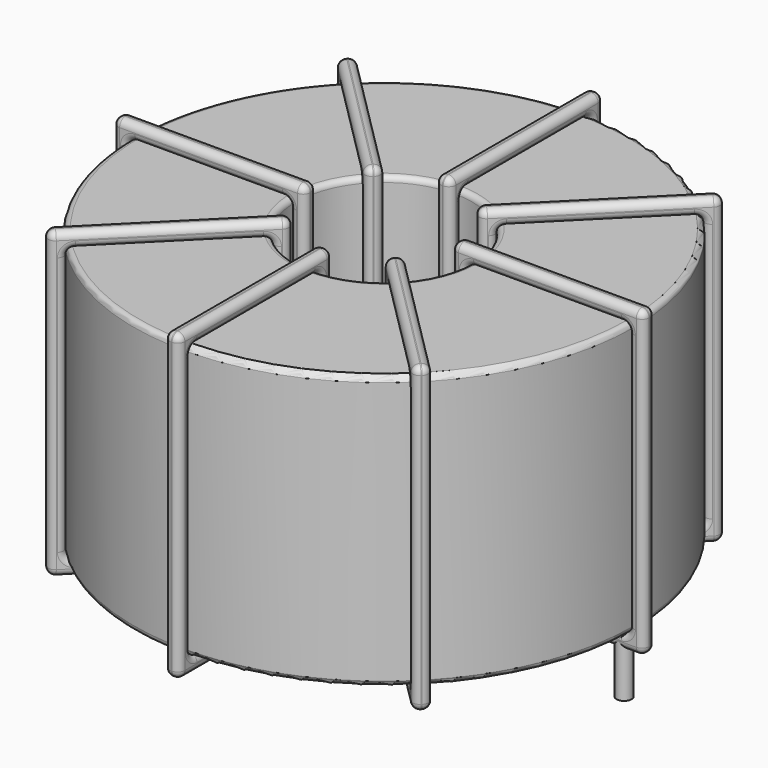
from build123d import *

# Parameters (mm, degrees)
SKETCH001_R       = 0.7
PAD001_DEPTH      = 0.7
PAD001_DEPTH_BACK = 4.9
SKETCH_R          = 23.25
SKETCH_R_2        = 8.216667
PAD_DEPTH         = 25.4
FILLET_R          = 0.5
SKETCH003_W       = 17.833333
SKETCH003_H       = 28.2
SKETCH003_W_2     = 15.033333
SKETCH003_H_2     = 25.4
PAD002_DEPTH      = 0.7
FILLET001_R       = 0.658
SKETCH004_W       = 17.833333
SKETCH004_H       = 28.2
SKETCH004_W_2     = 15.033333
SKETCH004_H_2     = 25.4
PAD003_DEPTH      = 0.7
FILLET002_R       = 0.658
SKETCH005_W       = 17.833333
SKETCH005_H       = 28.2
SKETCH005_W_2     = 15.033333
SKETCH005_H_2     = 25.4
PAD004_DEPTH      = 0.7
FILLET003_R       = 0.658
SKETCH006_W       = 17.833333
SKETCH006_H       = 28.2
SKETCH006_W_2     = 15.033333
SKETCH006_H_2     = 25.4
PAD005_DEPTH      = 0.7
FILLET004_R       = 0.658


with BuildPart() as pad001:
    # Sketch001 → Pad001 (new body, two sides)
    with BuildSketch(Plane.XY.offset(1.2)) as pad001_sk:
        Circle(SKETCH001_R)
        with Locations((44.6, 0)):
            Circle(SKETCH001_R)
    extrude(amount=PAD001_DEPTH)
    extrude(pad001_sk.sketch, amount=-PAD001_DEPTH_BACK)


with BuildPart() as fillet_body:
    # Sketch → Pad (new body)
    with BuildSketch(Plane.XY.offset(1.9)):
        with Locations((22.3, 0)):
            Circle(SKETCH_R)
        with Locations((22.3, 0)):
            Circle(SKETCH_R_2, mode=Mode.SUBTRACT)
    extrude(amount=PAD_DEPTH)

    # Fillet
    fillet_edges = [fillet_body.edges().sort_by_distance(p)[0] for p in [
        (14.083333, 0, 27.3),
        (-0.95, 0, 27.3),
        (-0.95, 0, 1.9),
    ]]
    fillet(fillet_edges, radius=FILLET_R)


with BuildPart() as fillet001:
    # Sketch003 → Pad002 (new body, symmetric)
    with BuildSketch(Plane(origin=(22.3, 0, 0), x_dir=(1, 0, 0), z_dir=(0, -1, 0))):
        with Locations((-15.733333, 14.6)):
            Rectangle(SKETCH003_W, SKETCH003_H)
        with Locations((-15.733334, 14.6)):
            Rectangle(SKETCH003_W_2, SKETCH003_H_2, mode=Mode.SUBTRACT)
        with Locations((15.733333, 14.6)):
            Rectangle(SKETCH003_W, SKETCH003_H)
        with Locations((15.733334, 14.6)):
            Rectangle(SKETCH003_W_2, SKETCH003_H_2, mode=Mode.SUBTRACT)
    extrude(amount=PAD002_DEPTH, both=True)

    # Fillet001
    fillet001_edges = [fillet001.edges().sort_by_distance(p)[0] for p in [
        (14.083333, 0, 27.3),
        (14.083333, 0, 1.9),
        (14.083333, 0.7, 14.6),
        (14.083333, -0.7, 14.6),
        (-2.35, 0, 28.7),
        (15.483333, 0, 28.7),
        (6.566667, 0.7, 28.7),
        (6.566667, -0.7, 28.7),
        (15.483333, 0, 0.5),
        (15.483333, 0.7, 14.6),
        (15.483333, -0.7, 14.6),
        (30.516667, 0, 27.3),
        (45.55, 0, 27.3),
        (38.033333, 0.7, 27.3),
        (38.033333, -0.7, 27.3),
        (45.55, 0, 1.9),
        (45.55, 0.7, 14.6),
        (45.55, -0.7, 14.6),
        (29.116667, 0, 28.7),
        (46.95, 0, 28.7),
        (38.033333, 0.7, 28.7),
        (38.033333, -0.7, 28.7),
        (46.95, 0, 0.5),
        (46.95, 0.7, 14.6),
        (46.95, -0.7, 14.6),
        (-0.95, 0, 27.3),
        (6.566667, 0.7, 27.3),
        (6.566667, -0.7, 27.3),
        (30.516667, 0, 1.9),
        (30.516667, 0.7, 14.6),
        (30.516667, -0.7, 14.6),
        (38.033333, 0.7, 1.9),
        (38.033333, -0.7, 1.9),
        (29.116667, 0, 0.5),
        (38.033333, 0.7, 0.5),
        (38.033333, -0.7, 0.5),
        (29.116667, 0.7, 14.6),
        (29.116667, -0.7, 14.6),
        (-2.35, 0, 0.5),
        (6.566667, 0.7, 0.5),
        (6.566667, -0.7, 0.5),
        (-2.35, 0.7, 14.6),
        (-2.35, -0.7, 14.6),
        (-0.95, 0, 1.9),
        (-0.95, 0.7, 14.6),
        (-0.95, -0.7, 14.6),
        (6.566667, 0.7, 1.9),
        (6.566667, -0.7, 1.9),
    ]]
    fillet(fillet001_edges, radius=FILLET001_R)


with BuildPart() as fillet002:
    # Sketch004 → Pad003 (new body, symmetric)
    with BuildSketch(Plane(origin=(22.3, 0, 0), x_dir=(0.707107, 0.707107, 0), z_dir=(0.707107, -0.707107, 0))):
        with Locations((-15.733333, 14.6)):
            Rectangle(SKETCH004_W, SKETCH004_H)
        with Locations((-15.733334, 14.6)):
            Rectangle(SKETCH004_W_2, SKETCH004_H_2, mode=Mode.SUBTRACT)
        with Locations((15.733333, 14.6)):
            Rectangle(SKETCH004_W, SKETCH004_H)
        with Locations((15.733334, 14.6)):
            Rectangle(SKETCH004_W_2, SKETCH004_H_2, mode=Mode.SUBTRACT)
    extrude(amount=PAD003_DEPTH, both=True)

    # Fillet002
    fillet002_edges = [fillet002.edges().sort_by_distance(p)[0] for p in [
        (16.489939, -5.810061, 27.3),
        (16.489939, -5.810061, 1.9),
        (15.994965, -5.315086, 14.6),
        (16.984914, -6.305035, 14.6),
        (4.869818, -17.430182, 28.7),
        (17.479889, -4.820111, 28.7),
        (10.679879, -10.630172, 28.7),
        (11.669828, -11.620121, 28.7),
        (17.479889, -4.820111, 0.5),
        (16.984914, -4.325136, 14.6),
        (17.974864, -5.315086, 14.6),
        (28.110061, 5.810061, 1.9),
        (28.110061, 5.810061, 27.3),
        (27.615086, 6.305035, 14.6),
        (28.605035, 5.315086, 14.6),
        (38.740233, 16.440233, 1.9),
        (32.930172, 11.620121, 1.9),
        (33.920121, 10.630172, 1.9),
        (27.120111, 4.820111, 28.7),
        (39.730182, 17.430182, 28.7),
        (32.930172, 11.620121, 28.7),
        (33.920121, 10.630172, 28.7),
        (39.730182, 17.430182, 0.5),
        (39.235207, 17.925157, 14.6),
        (40.225157, 16.935207, 14.6),
        (5.859767, -16.440233, 27.3),
        (10.679879, -10.630172, 27.3),
        (11.669828, -11.620121, 27.3),
        (38.740233, 16.440233, 27.3),
        (32.930172, 11.620121, 27.3),
        (33.920121, 10.630172, 27.3),
        (38.245258, 16.935207, 14.6),
        (39.235207, 15.945258, 14.6),
        (27.120111, 4.820111, 0.5),
        (32.930172, 11.620121, 0.5),
        (33.920121, 10.630172, 0.5),
        (26.625136, 5.315086, 14.6),
        (27.615086, 4.325136, 14.6),
        (4.869818, -17.430182, 0.5),
        (10.679879, -10.630172, 0.5),
        (11.669828, -11.620121, 0.5),
        (4.374843, -16.935207, 14.6),
        (5.364793, -17.925157, 14.6),
        (5.859767, -16.440233, 1.9),
        (5.364793, -15.945258, 14.6),
        (6.354742, -16.935207, 14.6),
        (10.679879, -10.630172, 1.9),
        (11.669828, -11.620121, 1.9),
    ]]
    fillet(fillet002_edges, radius=FILLET002_R)


with BuildPart() as fillet003:
    # Sketch005 → Pad004 (new body, symmetric)
    with BuildSketch(Plane(origin=(22.3, 0, 0), x_dir=(0.707107, -0.707107, 0), z_dir=(-0.707107, -0.707107, 0))):
        with Locations((-15.733333, 14.6)):
            Rectangle(SKETCH005_W, SKETCH005_H)
        with Locations((-15.733334, 14.6)):
            Rectangle(SKETCH005_W_2, SKETCH005_H_2, mode=Mode.SUBTRACT)
        with Locations((15.733333, 14.6)):
            Rectangle(SKETCH005_W, SKETCH005_H)
        with Locations((15.733334, 14.6)):
            Rectangle(SKETCH005_W_2, SKETCH005_H_2, mode=Mode.SUBTRACT)
    extrude(amount=PAD004_DEPTH, both=True)

    # Fillet003
    fillet003_edges = [fillet003.edges().sort_by_distance(p)[0] for p in [
        (16.489939, 5.810061, 27.3),
        (16.489939, 5.810061, 1.9),
        (16.984914, 6.305035, 14.6),
        (15.994965, 5.315086, 14.6),
        (4.869818, 17.430182, 28.7),
        (17.479889, 4.820111, 28.7),
        (11.669828, 11.620121, 28.7),
        (10.679879, 10.630172, 28.7),
        (17.479889, 4.820111, 0.5),
        (17.974864, 5.315086, 14.6),
        (16.984914, 4.325136, 14.6),
        (28.110061, -5.810061, 27.3),
        (38.740233, -16.440233, 27.3),
        (33.920121, -10.630172, 27.3),
        (32.930172, -11.620121, 27.3),
        (38.740233, -16.440233, 1.9),
        (39.235207, -15.945258, 14.6),
        (38.245258, -16.935207, 14.6),
        (27.120111, -4.820111, 28.7),
        (39.730182, -17.430182, 28.7),
        (33.920121, -10.630172, 28.7),
        (32.930172, -11.620121, 28.7),
        (39.730182, -17.430182, 0.5),
        (40.225157, -16.935207, 14.6),
        (39.235207, -17.925157, 14.6),
        (5.859767, 16.440233, 27.3),
        (11.669828, 11.620121, 27.3),
        (10.679879, 10.630172, 27.3),
        (28.110061, -5.810061, 1.9),
        (28.605035, -5.315086, 14.6),
        (27.615086, -6.305035, 14.6),
        (33.920121, -10.630172, 1.9),
        (32.930172, -11.620121, 1.9),
        (27.120111, -4.820111, 0.5),
        (33.920121, -10.630172, 0.5),
        (32.930172, -11.620121, 0.5),
        (27.615086, -4.325136, 14.6),
        (26.625136, -5.315086, 14.6),
        (4.869818, 17.430182, 0.5),
        (11.669828, 11.620121, 0.5),
        (10.679879, 10.630172, 0.5),
        (5.364793, 17.925157, 14.6),
        (4.374843, 16.935207, 14.6),
        (5.859767, 16.440233, 1.9),
        (6.354742, 16.935207, 14.6),
        (5.364793, 15.945258, 14.6),
        (11.669828, 11.620121, 1.9),
        (10.679879, 10.630172, 1.9),
    ]]
    fillet(fillet003_edges, radius=FILLET003_R)


with BuildPart() as fillet004:
    # Sketch006 → Pad005 (new body, symmetric)
    with BuildSketch(Plane.YZ.offset(22.3)):
        with Locations((-15.733333, 14.6)):
            Rectangle(SKETCH006_W, SKETCH006_H)
        with Locations((-15.733334, 14.6)):
            Rectangle(SKETCH006_W_2, SKETCH006_H_2, mode=Mode.SUBTRACT)
        with Locations((15.733333, 14.6)):
            Rectangle(SKETCH006_W, SKETCH006_H)
        with Locations((15.733334, 14.6)):
            Rectangle(SKETCH006_W_2, SKETCH006_H_2, mode=Mode.SUBTRACT)
    extrude(amount=PAD005_DEPTH, both=True)

    # Fillet004
    fillet004_edges = [fillet004.edges().sort_by_distance(p)[0] for p in [
        (22.3, -8.216667, 27.3),
        (22.3, -8.216667, 1.9),
        (21.6, -8.216667, 14.6),
        (23, -8.216667, 14.6),
        (22.3, -24.65, 28.7),
        (22.3, -6.816667, 28.7),
        (21.6, -15.733333, 28.7),
        (23, -15.733333, 28.7),
        (22.3, -6.816667, 0.5),
        (21.6, -6.816667, 14.6),
        (23, -6.816667, 14.6),
        (22.3, 8.216667, 27.3),
        (22.3, 23.25, 27.3),
        (21.6, 15.733333, 27.3),
        (23, 15.733333, 27.3),
        (22.3, 23.25, 1.9),
        (21.6, 23.25, 14.6),
        (23, 23.25, 14.6),
        (22.3, 6.816667, 28.7),
        (22.3, 24.65, 28.7),
        (21.6, 15.733333, 28.7),
        (23, 15.733333, 28.7),
        (22.3, 24.65, 0.5),
        (21.6, 24.65, 14.6),
        (23, 24.65, 14.6),
        (22.3, -23.25, 27.3),
        (21.6, -15.733333, 27.3),
        (23, -15.733333, 27.3),
        (22.3, 8.216667, 1.9),
        (21.6, 8.216667, 14.6),
        (23, 8.216667, 14.6),
        (21.6, 15.733333, 1.9),
        (23, 15.733333, 1.9),
        (22.3, 6.816667, 0.5),
        (21.6, 15.733333, 0.5),
        (23, 15.733333, 0.5),
        (21.6, 6.816667, 14.6),
        (23, 6.816667, 14.6),
        (22.3, -24.65, 0.5),
        (21.6, -15.733333, 0.5),
        (23, -15.733333, 0.5),
        (21.6, -24.65, 14.6),
        (23, -24.65, 14.6),
        (22.3, -23.25, 1.9),
        (21.6, -23.25, 14.6),
        (23, -23.25, 14.6),
        (21.6, -15.733333, 1.9),
        (23, -15.733333, 1.9),
    ]]
    fillet(fillet004_edges, radius=FILLET004_R)


solid = Compound([pad001.part, fillet_body.part, fillet001.part, fillet002.part, fillet003.part, fillet004.part])
